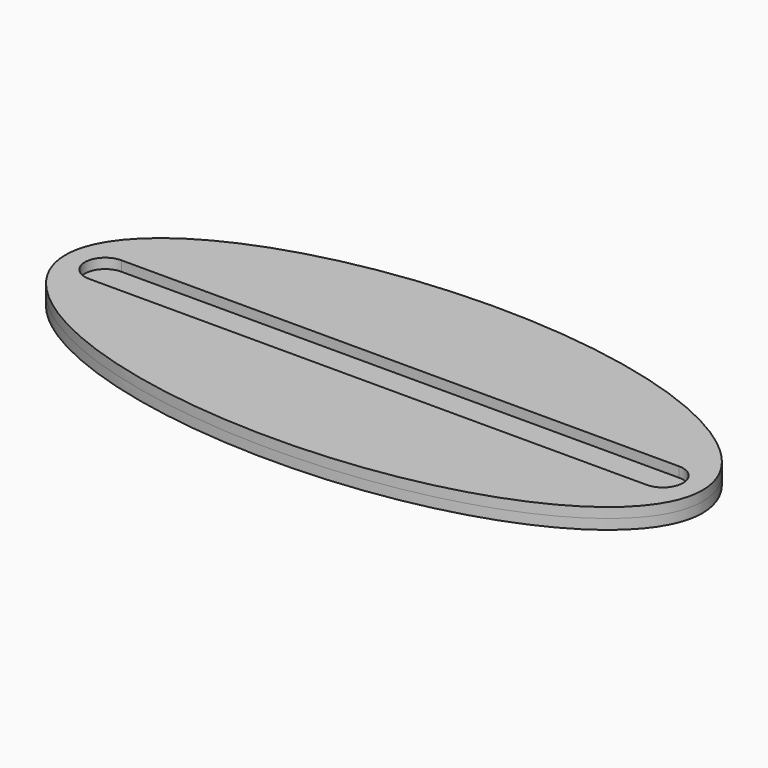
from build123d import *

# Parameters (mm, degrees)
PAD_DEPTH    = 3
PAD001_DEPTH = 3


with BuildPart() as part:
    # Sketch → Pad (new body)
    with BuildSketch(Plane.XY):
        with BuildLine():
            add(Edge.make_bspline(
                [(94.810337, 0), (94.810337, 72.746134), (-47.405168, 36.373067), (-189.620674, 0), (-47.405168, -36.373067), (94.810337, -72.746134), (94.810337, 0)],
                knots=[0, 0, 0, 2.094395, 2.094395, 4.18879, 4.18879, 6.283185, 6.283185, 6.283185], degree=2, weights=[1, 0.5, 1, 0.5, 1, 0.5, 1]))
        make_face()
    extrude(amount=PAD_DEPTH)

    # Sketch001 (on Face3 of Pad) → Pad001 (join)
    with BuildSketch(Plane.XY.offset(3)):
        with BuildLine():
            add(Edge.make_bspline(
                [(94.810337, 0), (94.810337, 72.746134), (-47.405168, 36.373067), (-189.620674, 0), (-47.405168, -36.373067), (94.810337, -72.746134), (94.810337, 0)],
                knots=[0, 0, 0, 2.094395, 2.094395, 4.18879, 4.18879, 6.283185, 6.283185, 6.283185], degree=2, weights=[1, 0.5, 1, 0.5, 1, 0.5, 1]))
        make_face()
        with BuildLine():
            ThreePointArc((-83, 6), (-89, 0), (-83, -6))
            Line((-83, -6), (83, -6))
            ThreePointArc((83, -6), (89, 0), (83, 6))
            Line((83, 6), (-83, 6))
        make_face(mode=Mode.SUBTRACT)
    extrude(amount=PAD001_DEPTH)


solid = part.part
